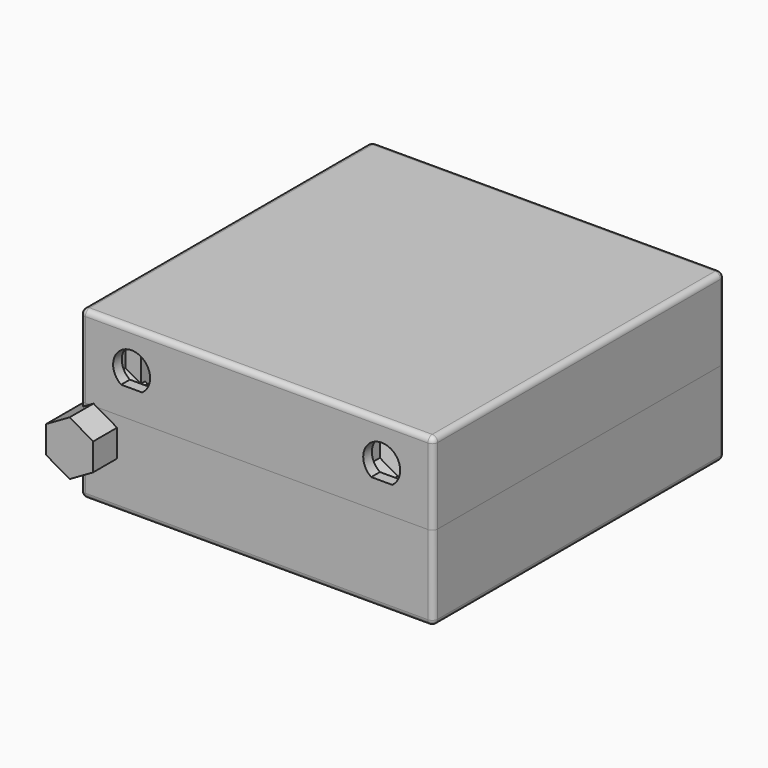
from build123d import *

# Parameters (mm, degrees)
BOX006_W                = 1.6
BOX006_H                = 0.8
BOX006_DEPTH            = 0.8
BOX007_W                = 1.6
BOX007_H                = 0.8
BOX007_DEPTH            = 0.8
BOX008_W                = 1.6
BOX008_H                = 0.8
BOX008_DEPTH            = 0.8
BOX009_W                = 1.6
BOX009_H                = 0.8
BOX009_DEPTH            = 0.8
BOX004_W                = 30
BOX004_H                = 54.5
BOX004_DEPTH            = 5.4
CYLINDER_R              = 1.7
CYLINDER_DEPTH          = 1.6
CYLINDER001_R           = 1.7
CYLINDER001_DEPTH       = 1.6
CYLINDER002_R           = 1.7
CYLINDER002_DEPTH       = 1.6
CYLINDER003_R           = 1.7
CYLINDER003_DEPTH       = 1.6
BOX_W                   = 60
BOX_H                   = 60
BOX_DEPTH               = 1.6
BOX003_W                = 14.35
BOX003_H                = 11.2
BOX003_DEPTH            = 1.25
BOX001_W                = 15.5
BOX001_H                = 21
BOX001_DEPTH            = 13
BOX002_W                = 9
BOX002_H                = 11
BOX002_DEPTH            = 3
BOX010_W                = 1.6
BOX010_H                = 0.8
BOX010_DEPTH            = 0.8
BOX048_W                = 15.5
BOX048_H                = 21
BOX048_DEPTH            = 13
BOX040_W                = 6
BOX040_H                = 6
BOX040_DEPTH            = 10
BOX041_W                = 10
BOX041_H                = 10
BOX041_DEPTH            = 2
BOX042_W                = 6
BOX042_H                = 6
BOX042_DEPTH            = 10
BOX043_W                = 6
BOX043_H                = 6
BOX043_DEPTH            = 10
BOX044_W                = 6
BOX044_H                = 6
BOX044_DEPTH            = 10
BOX045_W                = 10
BOX045_H                = 10
BOX045_DEPTH            = 2
BOX046_W                = 10
BOX046_H                = 10
BOX046_DEPTH            = 2
BOX047_W                = 10
BOX047_H                = 10
BOX047_DEPTH            = 2
CYLINDER017_R           = 2.5
CYLINDER017_DEPTH       = 6
CYLINDER018_R           = 2.5
CYLINDER018_DEPTH       = 6
CYLINDER019_R           = 2.5
CYLINDER019_DEPTH       = 6
CYLINDER020_R           = 2.5
CYLINDER020_DEPTH       = 6
BOX051_W                = 10
BOX051_H                = 10
BOX051_DEPTH            = 10
CYLINDER023_R           = 1
CYLINDER023_DEPTH       = 5
BOX053_W                = 5
BOX053_H                = 1
BOX053_DEPTH            = 2
BOX054_W                = 5
BOX054_H                = 1
BOX054_DEPTH            = 14.8
BOX055_W                = 5
BOX055_H                = 2
BOX055_DEPTH            = 5
FILLET002_R             = 1
CYLINDER024_R           = 1
CYLINDER024_DEPTH       = 5
BOX052_W                = 10
BOX052_H                = 10
BOX052_DEPTH            = 10
PAD011_DEPTH            = 10
PAD012_DEPTH            = 10
PAD013_DEPTH            = 10
PAD014_DEPTH            = 10
BOX057_W                = 14
BOX057_H                = 3
BOX057_DEPTH            = 9.5
CYLINDER030_R           = 0.7
CYLINDER030_DEPTH       = 7
CYLINDER031_R           = 0.7
CYLINDER031_DEPTH       = 7
CYLINDER029_R           = 0.7
CYLINDER029_DEPTH       = 12
CYLINDER032_R           = 0.7
CYLINDER032_DEPTH       = 12
BOX050_W                = 10
BOX050_H                = 10
BOX050_DEPTH            = 10
CYLINDER022_R           = 3.4
CYLINDER022_DEPTH       = 10
BOX049_W                = 10
BOX049_H                = 10
BOX049_DEPTH            = 10
CYLINDER021_R           = 3.4
CYLINDER021_DEPTH       = 10
BOX038_W                = 12
BOX038_H                = 11
BOX038_DEPTH            = 7.5
BOX037_W                = 63
BOX037_H                = 65
BOX037_DEPTH            = 11
BOX029_W                = 12
BOX029_H                = 11
BOX029_DEPTH            = 6
BOX028_W                = 10
BOX028_H                = 11
BOX028_DEPTH            = 4
BOX026_W                = 16.5
BOX026_H                = 21
BOX026_DEPTH            = 14
BOX013_W                = 61
BOX013_H                = 63
BOX013_DEPTH            = 13
BOX012_W                = 65
BOX012_H                = 67
BOX012_DEPTH            = 15
FILLET_R                = 1
PAD_DEPTH               = 10
PAD010_DEPTH            = 10
BOX056_W                = 14
BOX056_H                = 3
BOX056_DEPTH            = 9.5
CYLINDER026_R           = 0.7
CYLINDER026_DEPTH       = 5
CYLINDER027_R           = 0.7
CYLINDER027_DEPTH       = 10
CYLINDER028_R           = 0.7
CYLINDER028_DEPTH       = 10
PAD006_DEPTH            = 10
BODY002_PLACEMENT_ANGLE = 30
PAD007_DEPTH            = 10
BODY003_PLACEMENT_ANGLE = 30
PAD008_DEPTH            = 10
BODY004_PLACEMENT_ANGLE = 30
PAD009_DEPTH            = 10
BODY005_PLACEMENT_ANGLE = 30
CYLINDER006_R           = 1.7
CYLINDER006_DEPTH       = 9
BOX020_W                = 7.44
BOX020_H                = 9
BOX020_DEPTH            = 3
BOX019_W                = 6.5
BOX019_H                = 6.5
BOX019_DEPTH            = 9
CYLINDER007_R           = 1.7
CYLINDER007_DEPTH       = 9
BOX022_W                = 7.44
BOX022_H                = 11
BOX022_DEPTH            = 3
BOX021_W                = 6.5
BOX021_H                = 6.5
BOX021_DEPTH            = 9
CYLINDER008_R           = 1.7
CYLINDER008_DEPTH       = 9
BOX024_W                = 7.44
BOX024_H                = 9
BOX024_DEPTH            = 3
BOX023_W                = 6.5
BOX023_H                = 6.5
BOX023_DEPTH            = 9
BOX035_W                = 62.8
BOX035_H                = 64.8
BOX035_DEPTH            = 18.6
BOX034_W                = 65
BOX034_H                = 67
BOX034_DEPTH            = 18.6
BOX033_W                = 12
BOX033_H                = 11
BOX033_DEPTH            = 6
BOX032_W                = 14.35
BOX032_H                = 13.2
BOX032_DEPTH            = 3.25
BOX030_W                = 12
BOX030_H                = 11
BOX030_DEPTH            = 6
BOX031_W                = 10
BOX031_H                = 11
BOX031_DEPTH            = 4
BOX025_W                = 16.5
BOX025_H                = 21
BOX025_DEPTH            = 14
BOX011_W                = 61
BOX011_H                = 63
BOX011_DEPTH            = 18.6
BOX005_W                = 65
BOX005_H                = 67
BOX005_DEPTH            = 18.6
CYLINDER005_R           = 1.7
CYLINDER005_DEPTH       = 9
BOX018_W                = 7.44
BOX018_H                = 11
BOX018_DEPTH            = 3
BOX014_W                = 6.5
BOX014_H                = 6.5
BOX014_DEPTH            = 9
CYLINDER025_R           = 0.7
CYLINDER025_DEPTH       = 5
FILLET003_R             = 1


with BuildPart() as led1:
    # Box006 → Box006 (new body)
    with BuildSketch(Plane(origin=(7.2, 59.2, 1.6), x_dir=(1, 0, 0), z_dir=(0, 0, 1))):
        with Locations((0.8, 0.4)):
            Rectangle(BOX006_W, BOX006_H)
    extrude(amount=BOX006_DEPTH)


with BuildPart() as led2:
    # Box007 → Box007 (new body)
    with BuildSketch(Plane(origin=(11.4, 59.2, 1.6), x_dir=(1, 0, 0), z_dir=(0, 0, 1))):
        with Locations((0.8, 0.4)):
            Rectangle(BOX007_W, BOX007_H)
    extrude(amount=BOX007_DEPTH)


with BuildPart() as led3:
    # Box008 → Box008 (new body)
    with BuildSketch(Plane(origin=(26.7, 59.2, 1.6), x_dir=(1, 0, 0), z_dir=(0, 0, 1))):
        with Locations((0.8, 0.4)):
            Rectangle(BOX008_W, BOX008_H)
    extrude(amount=BOX008_DEPTH)


with BuildPart() as led4:
    # Box009 → Box009 (new body)
    with BuildSketch(Plane(origin=(30.7, 59.2, 1.6), x_dir=(1, 0, 0), z_dir=(0, 0, 1))):
        with Locations((0.8, 0.4)):
            Rectangle(BOX009_W, BOX009_H)
    extrude(amount=BOX009_DEPTH)


with BuildPart() as obj1:
    # Box004 → Box004 (new body)
    with BuildSketch(Plane(origin=(6.5, 2.5, -5.4), x_dir=(1, 0, 0), z_dir=(0, 0, 1))):
        with Locations((15, 27.25)):
            Rectangle(BOX004_W, BOX004_H)
    extrude(amount=BOX004_DEPTH)


with BuildPart() as cylinder:
    # Cylinder → Cylinder (new body)
    with BuildSketch(Plane(origin=(3, 3, 0), x_dir=(1, 0, 0), z_dir=(0, 0, 1))):
        Circle(CYLINDER_R)
    extrude(amount=CYLINDER_DEPTH)


with BuildPart() as cylinder001:
    # Cylinder001 → Cylinder001 (new body)
    with BuildSketch(Plane(origin=(3, 57, 0), x_dir=(1, 0, 0), z_dir=(0, 0, 1))):
        Circle(CYLINDER001_R)
    extrude(amount=CYLINDER001_DEPTH)


with BuildPart() as cylinder002:
    # Cylinder002 → Cylinder002 (new body)
    with BuildSketch(Plane(origin=(57, 3, 0), x_dir=(1, 0, 0), z_dir=(0, 0, 1))):
        Circle(CYLINDER002_R)
    extrude(amount=CYLINDER002_DEPTH)


with BuildPart() as fusion:
    # Cylinder003 → Cylinder003 (new body)
    with BuildSketch(Plane(origin=(57, 57, 0), x_dir=(1, 0, 0), z_dir=(0, 0, 1))):
        Circle(CYLINDER003_R)
    extrude(amount=CYLINDER003_DEPTH)

    # Fusion: union Cylinder, Cylinder001, Cylinder002
    add(cylinder.part)
    add(cylinder001.part)
    add(cylinder002.part)


with BuildPart() as pcb:
    # Box → Box (new body)
    with BuildSketch(Plane.XY):
        with Locations((30, 30)):
            Rectangle(BOX_W, BOX_H)
    extrude(amount=BOX_DEPTH)

    # Cut: cut Fusion
    add(fusion.part, mode=Mode.SUBTRACT)


with BuildPart() as sim:
    # Box003 → Box003 (new body)
    with BuildSketch(Plane(origin=(0, 13.9, 1.6), x_dir=(1, 0, 0), z_dir=(0, 0, 1))):
        with Locations((7.175, 5.6)):
            Rectangle(BOX003_W, BOX003_H)
    extrude(amount=BOX003_DEPTH)


with BuildPart() as eth:
    # Box001 → Box001 (new body)
    with BuildSketch(Plane(origin=(39.05, 43, 1.6), x_dir=(1, 0, 0), z_dir=(0, 0, 1))):
        with Locations((7.75, 10.5)):
            Rectangle(BOX001_W, BOX001_H)
    extrude(amount=BOX001_DEPTH)


with BuildPart() as usb:
    # Box002 → Box002 (new body)
    with BuildSketch(Plane(origin=(15.32, 50, 1.6), x_dir=(1, 0, 0), z_dir=(0, 0, 1))):
        with Locations((4.5, 5.5)):
            Rectangle(BOX002_W, BOX002_H)
    extrude(amount=BOX002_DEPTH)


with BuildPart() as board:
    # Box010 → Box010 (new body)
    with BuildSketch(Plane(origin=(34.7, 59.2, 1.6), x_dir=(1, 0, 0), z_dir=(0, 0, 1))):
        with Locations((0.8, 0.4)):
            Rectangle(BOX010_W, BOX010_H)
    extrude(amount=BOX010_DEPTH)

    # Fusion001: union LED1, LED2, LED3, LED4, obj1, PCB, SIM, Eth, USB
    add(led1.part)
    add(led2.part)
    add(led3.part)
    add(led4.part)
    add(obj1.part)
    add(pcb.part)
    add(sim.part)
    add(eth.part)
    add(usb.part)


with BuildPart() as eth004:
    # Box048 → Box048 (new body)
    with BuildSketch(Plane(origin=(39.05, 43, 1.6), x_dir=(1, 0, 0), z_dir=(0, 0, 1))):
        with Locations((7.75, 10.5)):
            Rectangle(BOX048_W, BOX048_H)
    extrude(amount=BOX048_DEPTH)


with BuildPart() as cube020:
    # Box040 → Box040 (new body)
    with BuildSketch(Plane(origin=(-0.5, -0.5, 7.6), x_dir=(1, 0, 0), z_dir=(0, 0, 1))):
        with Locations((3, 3)):
            Rectangle(BOX040_W, BOX040_H)
    extrude(amount=BOX040_DEPTH)


with BuildPart() as cube021:
    # Box041 → Box041 (new body)
    with BuildSketch(Plane(origin=(-0.5, -0.5, 15.6), x_dir=(1, 0, 0), z_dir=(0, 0, 1))):
        with Locations((5, 5)):
            Rectangle(BOX041_W, BOX041_H)
    extrude(amount=BOX041_DEPTH)


with BuildPart() as cube022:
    # Box042 → Box042 (new body)
    with BuildSketch(Plane(origin=(54.5, -0.5, 7.6), x_dir=(1, 0, 0), z_dir=(0, 0, 1))):
        with Locations((3, 3)):
            Rectangle(BOX042_W, BOX042_H)
    extrude(amount=BOX042_DEPTH)


with BuildPart() as cube023:
    # Box043 → Box043 (new body)
    with BuildSketch(Plane(origin=(-0.5, 54.5, 7.6), x_dir=(1, 0, 0), z_dir=(0, 0, 1))):
        with Locations((3, 3)):
            Rectangle(BOX043_W, BOX043_H)
    extrude(amount=BOX043_DEPTH)


with BuildPart() as cube024:
    # Box044 → Box044 (new body)
    with BuildSketch(Plane(origin=(54.5, 54.5, 7.6), x_dir=(1, 0, 0), z_dir=(0, 0, 1))):
        with Locations((3, 3)):
            Rectangle(BOX044_W, BOX044_H)
    extrude(amount=BOX044_DEPTH)


with BuildPart() as cube025:
    # Box045 → Box045 (new body)
    with BuildSketch(Plane(origin=(50.5, -0.5, 15.6), x_dir=(1, 0, 0), z_dir=(0, 0, 1))):
        with Locations((5, 5)):
            Rectangle(BOX045_W, BOX045_H)
    extrude(amount=BOX045_DEPTH)


with BuildPart() as cube026:
    # Box046 → Box046 (new body)
    with BuildSketch(Plane(origin=(-0.5, 50.5, 15.6), x_dir=(1, 0, 0), z_dir=(0, 0, 1))):
        with Locations((5, 5)):
            Rectangle(BOX046_W, BOX046_H)
    extrude(amount=BOX046_DEPTH)


with BuildPart() as cube027:
    # Box047 → Box047 (new body)
    with BuildSketch(Plane(origin=(50.5, 50.5, 15.6), x_dir=(1, 0, 0), z_dir=(0, 0, 1))):
        with Locations((5, 5)):
            Rectangle(BOX047_W, BOX047_H)
    extrude(amount=BOX047_DEPTH)


with BuildPart() as cylinder017:
    # Cylinder017 → Cylinder017 (new body)
    with BuildSketch(Plane(origin=(3, 3, 1.6), x_dir=(1, 0, 0), z_dir=(0, 0, 1))):
        Circle(CYLINDER017_R)
    extrude(amount=CYLINDER017_DEPTH)


with BuildPart() as cylinder018:
    # Cylinder018 → Cylinder018 (new body)
    with BuildSketch(Plane(origin=(57, 3, 1.6), x_dir=(1, 0, 0), z_dir=(0, 0, 1))):
        Circle(CYLINDER018_R)
    extrude(amount=CYLINDER018_DEPTH)


with BuildPart() as cylinder019:
    # Cylinder019 → Cylinder019 (new body)
    with BuildSketch(Plane(origin=(3, 57, 1.6), x_dir=(1, 0, 0), z_dir=(0, 0, 1))):
        Circle(CYLINDER019_R)
    extrude(amount=CYLINDER019_DEPTH)


with BuildPart() as cut023:
    # Cylinder020 → Cylinder020 (new body)
    with BuildSketch(Plane(origin=(57, 57, 1.6), x_dir=(1, 0, 0), z_dir=(0, 0, 1))):
        Circle(CYLINDER020_R)
    extrude(amount=CYLINDER020_DEPTH)

    # Fusion010: union Cube020, Cube021, Cube022, Cube023, Cube024, Cube025, Cube026, Cube027, Cylinder017, Cylinder018, Cylinder019
    add(cube020.part)
    add(cube021.part)
    add(cube022.part)
    add(cube023.part)
    add(cube024.part)
    add(cube025.part)
    add(cube026.part)
    add(cube027.part)
    add(cylinder017.part)
    add(cylinder018.part)
    add(cylinder019.part)

    # Cut023: cut Eth004
    add(eth004.part, mode=Mode.SUBTRACT)


with BuildPart() as cube030:
    # Box051 → Box051 (new body)
    with BuildSketch(Plane(origin=(25, 60.5, 0), x_dir=(1, 0, 0), z_dir=(0, 0, 1))):
        with Locations((5, 5)):
            Rectangle(BOX051_W, BOX051_H)
    extrude(amount=BOX051_DEPTH)


with BuildPart() as latch:
    # Cylinder023 → Cylinder023 (new body)
    with BuildSketch(Plane(origin=(27.5, 60.5, 4), x_dir=(0, 0, -1), z_dir=(1, 0, 0))):
        Circle(CYLINDER023_R)
    extrude(amount=CYLINDER023_DEPTH)

    # Cut028: cut Cube030
    add(cube030.part, mode=Mode.SUBTRACT)


with BuildPart() as latch_1:
    # Cut028 placement: moved
    add(latch.part.moved(Location((0, 0, 1.6))))


with BuildPart() as cube032:
    # Box053 → Box053 (new body)
    with BuildSketch(Plane(origin=(27.5, 58.5, 2.8), x_dir=(1, 0, 0), z_dir=(0, 0, 1))):
        with Locations((2.5, 0.5)):
            Rectangle(BOX053_W, BOX053_H)
    extrude(amount=BOX053_DEPTH)


with BuildPart() as cube033:
    # Box054 → Box054 (new body)
    with BuildSketch(Plane(origin=(27.5, 57.5, 2.8), x_dir=(1, 0, 0), z_dir=(0, 0, 1))):
        with Locations((2.5, 0.5)):
            Rectangle(BOX054_W, BOX054_H)
    extrude(amount=BOX054_DEPTH)


with BuildPart() as fillet002:
    # Box055 → Box055 (new body)
    with BuildSketch(Plane(origin=(27.5, 58.5, 12.6), x_dir=(1, 0, 0), z_dir=(0, 0, 1))):
        with Locations((2.5, 1)):
            Rectangle(BOX055_W, BOX055_H)
    extrude(amount=BOX055_DEPTH)

    # Fillet002
    fillet002_edges = [fillet002.edges().sort_by_distance(p)[0] for p in [
        (30, 60.5, 17.6),
    ]]
    fillet(fillet002_edges, radius=FILLET002_R)


with BuildPart() as cylinder024:
    # Cylinder024 → Cylinder024 (new body)
    with BuildSketch(Plane(origin=(27.5, 60.5, 4), x_dir=(0, 0, -1), z_dir=(1, 0, 0))):
        Circle(CYLINDER024_R)
    extrude(amount=CYLINDER024_DEPTH)


with BuildPart() as clip:
    # Box052 → Box052 (new body)
    with BuildSketch(Plane(origin=(25, 60.5, 0), x_dir=(1, 0, 0), z_dir=(0, 0, 1))):
        with Locations((5, 5)):
            Rectangle(BOX052_W, BOX052_H)
    extrude(amount=BOX052_DEPTH)

    # Common: intersect Cylinder024
    add(cylinder024.part, mode=Mode.INTERSECT)


with BuildPart() as clip_1:
    # Common placement: moved
    add(clip.part.moved(Location((0, -1, -0.2))))

    # Fusion013: union Cube032, Cube033, Fillet002
    add(cube032.part)
    add(cube033.part)
    add(fillet002.part)


with BuildPart() as obj2:
    # Sketch010 → Pad011 (new body)
    with BuildSketch(Plane.XZ):
        Polygon((-4.330127, 2.5), (-4.330127, -2.5), (0, -5), (4.330127, -2.5), (4.330127, 2.5), (0, 5), align=None)
    extrude(amount=PAD011_DEPTH)

    # Sketch010 → Pad012 (join)
    with BuildSketch(Plane.XZ):
        Polygon((-4.330127, 2.5), (-4.330127, -2.5), (0, -5), (4.330127, -2.5), (4.330127, 2.5), (0, 5), align=None)
    extrude(amount=PAD012_DEPTH)


with BuildPart() as obj3:
    # Sketch011 → Pad013 (new body)
    with BuildSketch(Plane.XZ):
        Polygon((-4.330127, 2.5), (-4.330127, -2.5), (0, -5), (4.330127, -2.5), (4.330127, 2.5), (0, 5), align=None)
    extrude(amount=PAD013_DEPTH)

    # Sketch011 → Pad014 (join)
    with BuildSketch(Plane.XZ):
        Polygon((-4.330127, 2.5), (-4.330127, -2.5), (0, -5), (4.330127, -2.5), (4.330127, 2.5), (0, 5), align=None)
    extrude(amount=PAD014_DEPTH)


with BuildPart() as obj3_1:
    # Body007 placement: moved
    add(obj3.part.moved(Location((53, 5, 12.5))))


with BuildPart() as cut031:
    # Box057 → Box057 (new body)
    with BuildSketch(Plane(origin=(46.5, -2.5, 8.1), x_dir=(1, 0, 0), z_dir=(0, 0, 1))):
        with Locations((7, 1.5)):
            Rectangle(BOX057_W, BOX057_H)
    extrude(amount=BOX057_DEPTH)

    # Cut031: cut obj3
    add(obj3_1.part, mode=Mode.SUBTRACT)


with BuildPart() as cylinder030:
    # Cylinder030 → Cylinder030 (new body)
    with BuildSketch(Plane(origin=(26.5, -3.4, 6.9), x_dir=(0, 0, -1), z_dir=(1, 0, 0))):
        Circle(CYLINDER030_R)
    extrude(amount=CYLINDER030_DEPTH)


with BuildPart() as cylinder031:
    # Cylinder031 → Cylinder031 (new body)
    with BuildSketch(Plane(origin=(26.5, 61.4, 6.9), x_dir=(0, 0, -1), z_dir=(1, 0, 0))):
        Circle(CYLINDER031_R)
    extrude(amount=CYLINDER031_DEPTH)


with BuildPart() as cylinder029:
    # Cylinder029 → Cylinder029 (new body)
    with BuildSketch(Plane(origin=(-1.4, 35, 6.9), x_dir=(1, 0, 0), z_dir=(0, -1, 0))):
        Circle(CYLINDER029_R)
    extrude(amount=CYLINDER029_DEPTH)


with BuildPart() as fusion015:
    # Cylinder032 → Cylinder032 (new body)
    with BuildSketch(Plane(origin=(61.4, 35, 6.9), x_dir=(1, 0, 0), z_dir=(0, -1, 0))):
        Circle(CYLINDER032_R)
    extrude(amount=CYLINDER032_DEPTH)

    # Fusion015: union Cylinder030, Cylinder031, Cylinder029
    add(cylinder030.part)
    add(cylinder031.part)
    add(cylinder029.part)


with BuildPart() as cube029:
    # Box050 → Box050 (new body)
    with BuildSketch(Plane(origin=(-5, -10, -12.8), x_dir=(1, 0, 0), z_dir=(0, 0, 1))):
        with Locations((5, 5)):
            Rectangle(BOX050_W, BOX050_H)
    extrude(amount=BOX050_DEPTH)


with BuildPart() as cut025:
    # Cylinder022 → Cylinder022 (new body)
    with BuildSketch(Plane.XZ):
        Circle(CYLINDER022_R)
    extrude(amount=CYLINDER022_DEPTH)

    # Cut025: cut Cube029
    add(cube029.part, mode=Mode.SUBTRACT)


with BuildPart() as cut025_1:
    # Cut025 placement: moved
    add(cut025.part.moved(Location((53, 5, 12.5))))


with BuildPart() as cube028:
    # Box049 → Box049 (new body)
    with BuildSketch(Plane(origin=(-5, -10, -12.8), x_dir=(1, 0, 0), z_dir=(0, 0, 1))):
        with Locations((5, 5)):
            Rectangle(BOX049_W, BOX049_H)
    extrude(amount=BOX049_DEPTH)


with BuildPart() as fusion011:
    # Cylinder021 → Cylinder021 (new body)
    with BuildSketch(Plane.XZ):
        Circle(CYLINDER021_R)
    extrude(amount=CYLINDER021_DEPTH)

    # Cut024: cut Cube028
    add(cube028.part, mode=Mode.SUBTRACT)


with BuildPart() as fusion011_1:
    # Cut024 placement: moved
    add(fusion011.part.moved(Location((7, 5, 12.5))))

    # Fusion011: union Cut025
    add(cut025_1.part)


with BuildPart() as usb007:
    # Box038 → Box038 (new body)
    with BuildSketch(Plane(origin=(13.82, 53, 0.1), x_dir=(1, 0, 0), z_dir=(0, 0, 1))):
        with Locations((6, 5.5)):
            Rectangle(BOX038_W, BOX038_H)
    extrude(amount=BOX038_DEPTH)


with BuildPart() as cut015:
    # Box037 → Box037 (new body)
    with BuildSketch(Plane(origin=(-1.5, -3.5, -3.4), x_dir=(1, 0, 0), z_dir=(0, 0, 1))):
        with Locations((31.5, 32.5)):
            Rectangle(BOX037_W, BOX037_H)
    extrude(amount=BOX037_DEPTH)

    # Cut015: cut USB007
    add(usb007.part, mode=Mode.SUBTRACT)


with BuildPart() as usb003:
    # Box029 → Box029 (new body)
    with BuildSketch(Plane(origin=(13.82, 61.25, 0.1), x_dir=(1, 0, 0), z_dir=(0, 0, 1))):
        with Locations((6, 5.5)):
            Rectangle(BOX029_W, BOX029_H)
    extrude(amount=BOX029_DEPTH)


with BuildPart() as fusion006:
    # Box028 → Box028 (new body)
    with BuildSketch(Plane(origin=(14.82, 54, 1.1), x_dir=(1, 0, 0), z_dir=(0, 0, 1))):
        with Locations((5, 5.5)):
            Rectangle(BOX028_W, BOX028_H)
    extrude(amount=BOX028_DEPTH)

    # Fusion006: union USB003
    add(usb003.part)


with BuildPart() as eth002:
    # Box026 → Box026 (new body)
    with BuildSketch(Plane(origin=(38.55, 43, 1.1), x_dir=(1, 0, 0), z_dir=(0, 0, 1))):
        with Locations((8.25, 10.5)):
            Rectangle(BOX026_W, BOX026_H)
    extrude(amount=BOX026_DEPTH)


with BuildPart() as cube004:
    # Box013 → Box013 (new body)
    with BuildSketch(Plane(origin=(-0.5, -2.5, 4.6), x_dir=(1, 0, 0), z_dir=(0, 0, 1))):
        with Locations((30.5, 31.5)):
            Rectangle(BOX013_W, BOX013_H)
    extrude(amount=BOX013_DEPTH)


with BuildPart() as cut029:
    # Box012 → Box012 (new body)
    with BuildSketch(Plane(origin=(-2.5, -4.5, 4.6), x_dir=(1, 0, 0), z_dir=(0, 0, 1))):
        with Locations((32.5, 33.5)):
            Rectangle(BOX012_W, BOX012_H)
    extrude(amount=BOX012_DEPTH)

    # Cut002: cut Cube004
    add(cube004.part, mode=Mode.SUBTRACT)

    # Cut008: cut Eth002
    add(eth002.part, mode=Mode.SUBTRACT)

    # Cut009: cut Fusion006
    add(fusion006.part, mode=Mode.SUBTRACT)

    # Cut016: cut Cut015
    add(cut015.part, mode=Mode.SUBTRACT)

    # Cut026: cut Fusion011
    add(fusion011_1.part, mode=Mode.SUBTRACT)

    # Fillet
    fillet_edges = [cut029.edges().sort_by_distance(p)[0] for p in [
        (-2.5, -4.5, 12.1),
        (-2.5, 29, 19.6),
        (-2.5, 62.5, 12.1),
        (62.5, -4.5, 12.1),
        (30, -4.5, 19.6),
        (30, 62.5, 19.6),
        (62.5, 29, 19.6),
        (62.5, 62.5, 12.1),
    ]]
    fillet(fillet_edges, radius=FILLET_R)

    # Cut029: cut Fusion015
    add(fusion015.part, mode=Mode.SUBTRACT)


with BuildPart() as obj4:
    # Sketch → Pad (new body)
    with BuildSketch(Plane.XZ):
        Polygon((-4.330127, 2.5), (-4.330127, -2.5), (0, -5), (4.330127, -2.5), (4.330127, 2.5), (0, 5), align=None)
    extrude(amount=PAD_DEPTH)

    # Sketch → Pad010 (join)
    with BuildSketch(Plane.XZ):
        Polygon((-4.330127, 2.5), (-4.330127, -2.5), (0, -5), (4.330127, -2.5), (4.330127, 2.5), (0, 5), align=None)
    extrude(amount=PAD010_DEPTH)


with BuildPart() as obj4_1:
    # Body placement: moved
    add(obj4.part.moved(Location((7, 5, 12.5))))


with BuildPart() as fusion017:
    # Box056 → Box056 (new body)
    with BuildSketch(Plane(origin=(-0.5, -2.5, 8.1), x_dir=(1, 0, 0), z_dir=(0, 0, 1))):
        with Locations((7, 1.5)):
            Rectangle(BOX056_W, BOX056_H)
    extrude(amount=BOX056_DEPTH)

    # Cut030: cut obj4
    add(obj4_1.part, mode=Mode.SUBTRACT)

    # Fusion017: union Cut031, Cut029
    add(cut031.part)
    add(cut029.part)


with BuildPart() as cylinder026:
    # Cylinder026 → Cylinder026 (new body)
    with BuildSketch(Plane(origin=(27.5, 61.4, 6.9), x_dir=(0, 0, -1), z_dir=(1, 0, 0))):
        Circle(CYLINDER026_R)
    extrude(amount=CYLINDER026_DEPTH)


with BuildPart() as cylinder027:
    # Cylinder027 → Cylinder027 (new body)
    with BuildSketch(Plane(origin=(-1.4, 34, 6.9), x_dir=(1, 0, 0), z_dir=(0, -1, 0))):
        Circle(CYLINDER027_R)
    extrude(amount=CYLINDER027_DEPTH)


with BuildPart() as cylinder028:
    # Cylinder028 → Cylinder028 (new body)
    with BuildSketch(Plane(origin=(61.4, 34, 6.9), x_dir=(1, 0, 0), z_dir=(0, -1, 0))):
        Circle(CYLINDER028_R)
    extrude(amount=CYLINDER028_DEPTH)


with BuildPart() as nut001:
    # Sketch006 → Pad006 (new body)
    with BuildSketch(Plane.XY):
        Polygon((-1.7, 2.944486), (1.7, 2.944486), (3.4, 0), (1.7, -2.944486), (-1.7, -2.944486), (-3.4, 0), align=None)
    extrude(amount=PAD006_DEPTH)


with BuildPart() as nut001_1:
    # Body002 placement: moved
    add(nut001.part.moved(Location((3, 3, -18))).rotate(Axis((3, 3, -18), (0, 0, 1)), BODY002_PLACEMENT_ANGLE))


with BuildPart() as nut002:
    # Sketch007 → Pad007 (new body)
    with BuildSketch(Plane.XY):
        Polygon((-1.7, 2.944486), (1.7, 2.944486), (3.4, 0), (1.7, -2.944486), (-1.7, -2.944486), (-3.4, 0), align=None)
    extrude(amount=PAD007_DEPTH)


with BuildPart() as nut002_1:
    # Body003 placement: moved
    add(nut002.part.moved(Location((3, 57, -18))).rotate(Axis((3, 57, -18), (0, 0, 1)), BODY003_PLACEMENT_ANGLE))


with BuildPart() as nut003:
    # Sketch008 → Pad008 (new body)
    with BuildSketch(Plane.XY):
        Polygon((-1.7, 2.944486), (1.7, 2.944486), (3.4, 0), (1.7, -2.944486), (-1.7, -2.944486), (-3.4, 0), align=None)
    extrude(amount=PAD008_DEPTH)


with BuildPart() as nut003_1:
    # Body004 placement: moved
    add(nut003.part.moved(Location((57, 3, -18))).rotate(Axis((57, 3, -18), (0, 0, 1)), BODY004_PLACEMENT_ANGLE))


with BuildPart() as fusion012:
    # Sketch009 → Pad009 (new body)
    with BuildSketch(Plane.XY):
        Polygon((-1.7, 2.944486), (1.7, 2.944486), (3.4, 0), (1.7, -2.944486), (-1.7, -2.944486), (-3.4, 0), align=None)
    extrude(amount=PAD009_DEPTH)


with BuildPart() as fusion012_1:
    # Body005 placement: moved
    add(fusion012.part.moved(Location((57, 57, -18))).rotate(Axis((57, 57, -18), (0, 0, 1)), BODY005_PLACEMENT_ANGLE))

    # Fusion012: union Nut001, Nut002, Nut003
    add(nut001_1.part)
    add(nut002_1.part)
    add(nut003_1.part)


with BuildPart() as cylinder006:
    # Cylinder006 → Cylinder006 (new body)
    with BuildSketch(Plane.XY.offset(-9)):
        Circle(CYLINDER006_R)
    extrude(amount=CYLINDER006_DEPTH)


with BuildPart() as cube011:
    # Box020 → Box020 (new body)
    with BuildSketch(Plane(origin=(-3.5, -6, -9), x_dir=(1, 0, 0), z_dir=(0, 0, 1))):
        with Locations((3.72, 4.5)):
            Rectangle(BOX020_W, BOX020_H)
    extrude(amount=BOX020_DEPTH)


with BuildPart() as cut004:
    # Box019 → Box019 (new body)
    with BuildSketch(Plane(origin=(-3.5, -3.5, -9), x_dir=(1, 0, 0), z_dir=(0, 0, 1))):
        with Locations((3.25, 3.25)):
            Rectangle(BOX019_W, BOX019_H)
    extrude(amount=BOX019_DEPTH)

    # Fusion003: union Cube011
    add(cube011.part)

    # Cut004: cut Cylinder006
    add(cylinder006.part, mode=Mode.SUBTRACT)


with BuildPart() as cut004_1:
    # Cut004 placement: moved
    add(cut004.part.moved(Location((3, 57, 0))))


with BuildPart() as cylinder007:
    # Cylinder007 → Cylinder007 (new body)
    with BuildSketch(Plane.XY.offset(-9)):
        Circle(CYLINDER007_R)
    extrude(amount=CYLINDER007_DEPTH)


with BuildPart() as cube013:
    # Box022 → Box022 (new body)
    with BuildSketch(Plane(origin=(-3.94, -5.5, -9), x_dir=(1, 0, 0), z_dir=(0, 0, 1))):
        with Locations((3.72, 5.5)):
            Rectangle(BOX022_W, BOX022_H)
    extrude(amount=BOX022_DEPTH)


with BuildPart() as cut005:
    # Box021 → Box021 (new body)
    with BuildSketch(Plane(origin=(-3, -3.5, -9), x_dir=(1, 0, 0), z_dir=(0, 0, 1))):
        with Locations((3.25, 3.25)):
            Rectangle(BOX021_W, BOX021_H)
    extrude(amount=BOX021_DEPTH)

    # Fusion004: union Cube013
    add(cube013.part)

    # Cut005: cut Cylinder007
    add(cylinder007.part, mode=Mode.SUBTRACT)


with BuildPart() as cut005_1:
    # Cut005 placement: moved
    add(cut005.part.moved(Location((57, 3, 0))))


with BuildPart() as cylinder008:
    # Cylinder008 → Cylinder008 (new body)
    with BuildSketch(Plane.XY.offset(-9)):
        Circle(CYLINDER008_R)
    extrude(amount=CYLINDER008_DEPTH)


with BuildPart() as cube015:
    # Box024 → Box024 (new body)
    with BuildSketch(Plane(origin=(-3.94, -6, -9), x_dir=(1, 0, 0), z_dir=(0, 0, 1))):
        with Locations((3.72, 4.5)):
            Rectangle(BOX024_W, BOX024_H)
    extrude(amount=BOX024_DEPTH)


with BuildPart() as cut006:
    # Box023 → Box023 (new body)
    with BuildSketch(Plane(origin=(-3, -3.5, -9), x_dir=(1, 0, 0), z_dir=(0, 0, 1))):
        with Locations((3.25, 3.25)):
            Rectangle(BOX023_W, BOX023_H)
    extrude(amount=BOX023_DEPTH)

    # Fusion005: union Cube015
    add(cube015.part)

    # Cut006: cut Cylinder008
    add(cylinder008.part, mode=Mode.SUBTRACT)


with BuildPart() as cut006_1:
    # Cut006 placement: moved
    add(cut006.part.moved(Location((57, 57, 0))))


with BuildPart() as cube017:
    # Box035 → Box035 (new body)
    with BuildSketch(Plane(origin=(-1.4, -3.4, 4.6), x_dir=(1, 0, 0), z_dir=(0, 0, 1))):
        with Locations((31.4, 32.4)):
            Rectangle(BOX035_W, BOX035_H)
    extrude(amount=BOX035_DEPTH)


with BuildPart() as cut013:
    # Box034 → Box034 (new body)
    with BuildSketch(Plane(origin=(-2.5, -4.5, 4.6), x_dir=(1, 0, 0), z_dir=(0, 0, 1))):
        with Locations((32.5, 33.5)):
            Rectangle(BOX034_W, BOX034_H)
    extrude(amount=BOX034_DEPTH)

    # Cut013: cut Cube017
    add(cube017.part, mode=Mode.SUBTRACT)


with BuildPart() as usb006:
    # Box033 → Box033 (new body)
    with BuildSketch(Plane(origin=(13.82, 59, 4.6), x_dir=(1, 0, 0), z_dir=(0, 0, 1))):
        with Locations((6, 5.5)):
            Rectangle(BOX033_W, BOX033_H)
    extrude(amount=BOX033_DEPTH)


with BuildPart() as sim001:
    # Box032 → Box032 (new body)
    with BuildSketch(Plane(origin=(-6, 12.9, 0.6), x_dir=(1, 0, 0), z_dir=(0, 0, 1))):
        with Locations((7.175, 6.6)):
            Rectangle(BOX032_W, BOX032_H)
    extrude(amount=BOX032_DEPTH)


with BuildPart() as usb004:
    # Box030 → Box030 (new body)
    with BuildSketch(Plane(origin=(13.82, 61.25, 1), x_dir=(1, 0, 0), z_dir=(0, 0, 1))):
        with Locations((6, 5.5)):
            Rectangle(BOX030_W, BOX030_H)
    extrude(amount=BOX030_DEPTH)


with BuildPart() as fusion007:
    # Box031 → Box031 (new body)
    with BuildSketch(Plane(origin=(14.82, 54, 1.1), x_dir=(1, 0, 0), z_dir=(0, 0, 1))):
        with Locations((5, 5.5)):
            Rectangle(BOX031_W, BOX031_H)
    extrude(amount=BOX031_DEPTH)

    # Fusion007: union USB004
    add(usb004.part)


with BuildPart() as eth001:
    # Box025 → Box025 (new body)
    with BuildSketch(Plane(origin=(38.55, 43, 1.1), x_dir=(1, 0, 0), z_dir=(0, 0, 1))):
        with Locations((8.25, 10.5)):
            Rectangle(BOX025_W, BOX025_H)
    extrude(amount=BOX025_DEPTH)


with BuildPart() as cube002:
    # Box011 → Box011 (new body)
    with BuildSketch(Plane(origin=(-0.5, -2.5, -9), x_dir=(1, 0, 0), z_dir=(0, 0, 1))):
        with Locations((30.5, 31.5)):
            Rectangle(BOX011_W, BOX011_H)
    extrude(amount=BOX011_DEPTH)


with BuildPart() as cut014:
    # Box005 → Box005 (new body)
    with BuildSketch(Plane(origin=(-2.5, -4.5, -11), x_dir=(1, 0, 0), z_dir=(0, 0, 1))):
        with Locations((32.5, 33.5)):
            Rectangle(BOX005_W, BOX005_H)
    extrude(amount=BOX005_DEPTH)

    # Cut001: cut Cube002
    add(cube002.part, mode=Mode.SUBTRACT)

    # Cut007: cut Eth001
    add(eth001.part, mode=Mode.SUBTRACT)

    # Cut010: cut Fusion007
    add(fusion007.part, mode=Mode.SUBTRACT)

    # Cut011: cut SIM001
    add(sim001.part, mode=Mode.SUBTRACT)

    # Cut012: cut USB006
    add(usb006.part, mode=Mode.SUBTRACT)

    # Cut014: cut Cut013
    add(cut013.part, mode=Mode.SUBTRACT)


with BuildPart() as cylinder005:
    # Cylinder005 → Cylinder005 (new body)
    with BuildSketch(Plane.XY.offset(-9)):
        Circle(CYLINDER005_R)
    extrude(amount=CYLINDER005_DEPTH)


with BuildPart() as cube009:
    # Box018 → Box018 (new body)
    with BuildSketch(Plane(origin=(-3.5, -5.5, -9), x_dir=(1, 0, 0), z_dir=(0, 0, 1))):
        with Locations((3.72, 5.5)):
            Rectangle(BOX018_W, BOX018_H)
    extrude(amount=BOX018_DEPTH)


with BuildPart() as cut027:
    # Box014 → Box014 (new body)
    with BuildSketch(Plane(origin=(-3.5, -3.5, -9), x_dir=(1, 0, 0), z_dir=(0, 0, 1))):
        with Locations((3.25, 3.25)):
            Rectangle(BOX014_W, BOX014_H)
    extrude(amount=BOX014_DEPTH)

    # Fusion002: union Cube009
    add(cube009.part)

    # Cut003: cut Cylinder005
    add(cylinder005.part, mode=Mode.SUBTRACT)


with BuildPart() as cut027_1:
    # Cut003 placement: moved
    add(cut027.part.moved(Location((3, 3, 0))))

    # Fusion008: union Cut004, Cut005, Cut006, Cut014
    add(cut004_1.part)
    add(cut005_1.part)
    add(cut006_1.part)
    add(cut014.part)

    # Cut027: cut Fusion012
    add(fusion012_1.part, mode=Mode.SUBTRACT)


with BuildPart() as fillet003:
    # Cylinder025 → Cylinder025 (new body)
    with BuildSketch(Plane(origin=(27.5, -3.4, 6.9), x_dir=(0, 0, -1), z_dir=(1, 0, 0))):
        Circle(CYLINDER025_R)
    extrude(amount=CYLINDER025_DEPTH)

    # Fusion018: union Cylinder026, Cylinder027, Cylinder028, Cut027
    add(cylinder026.part)
    add(cylinder027.part)
    add(cylinder028.part)
    add(cut027_1.part)

    # Fillet003
    fillet003_edges = [fillet003.edges().sort_by_distance(p)[0] for p in [
        (-2.5, 62.5, -3.2),
        (30, 62.5, -11),
        (62.5, 62.5, -3.2),
        (62.5, -4.5, -3.2),
        (62.5, 29, -11),
        (-2.5, -4.5, -3.2),
        (30, -4.5, -11),
        (-2.5, 29, -11),
    ]]
    fillet(fillet003_edges, radius=FILLET003_R)


solid = Compound([board.part, cut023.part, latch_1.part, clip_1.part, obj2.part, fusion017.part, fillet003.part])
